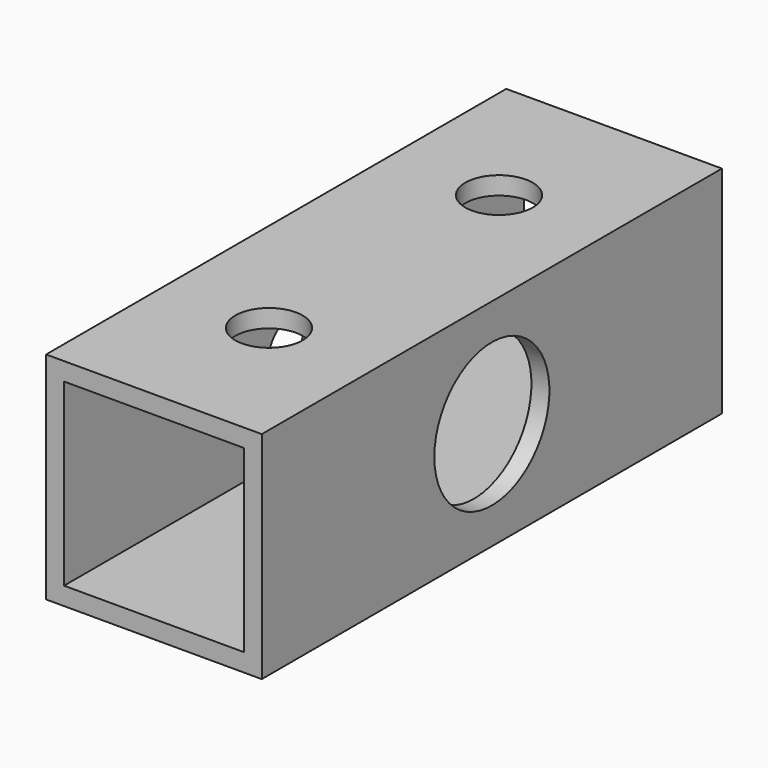
from build123d import *

# Parameters (mm, degrees)
F0_W     = 19.05
F0_H     = 19.05
F0_W_2   = 15.875
F0_H_2   = 15.875
F1_DEPTH = 50.8
F3_D     = 5.953125
F3_DEPTH = 6.35
F5_D     = 12.7
F5_DEPTH = 6.35
F7_D     = 5.953125
F7_DEPTH = 6.35


with BuildPart() as f1:
    # F0 (on Front) → F1 (new body)
    with BuildSketch(Plane.XZ):
        Rectangle(F0_W, F0_H)
        Rectangle(F0_W_2, F0_H_2, mode=Mode.SUBTRACT)
    extrude(amount=F1_DEPTH)

    # F3
    with Locations(Plane(origin=(-9.525, 0, 0), x_dir=(0, -1, 0), z_dir=(-1, 0, 0))):
        with Locations((25.4, 0)):
            Hole(F3_D / 2, depth=F3_DEPTH)

    # F5
    with Locations(Plane.YZ.offset(9.525)):
        with Locations((-25.4, 0)):
            Hole(F5_D / 2, depth=F5_DEPTH)

    # F7
    with Locations(Plane.XY.offset(9.525)):
        with Locations((0, -12.7), (0, -38.1)):
            Hole(F7_D / 2, depth=F7_DEPTH)


solid = f1.part
